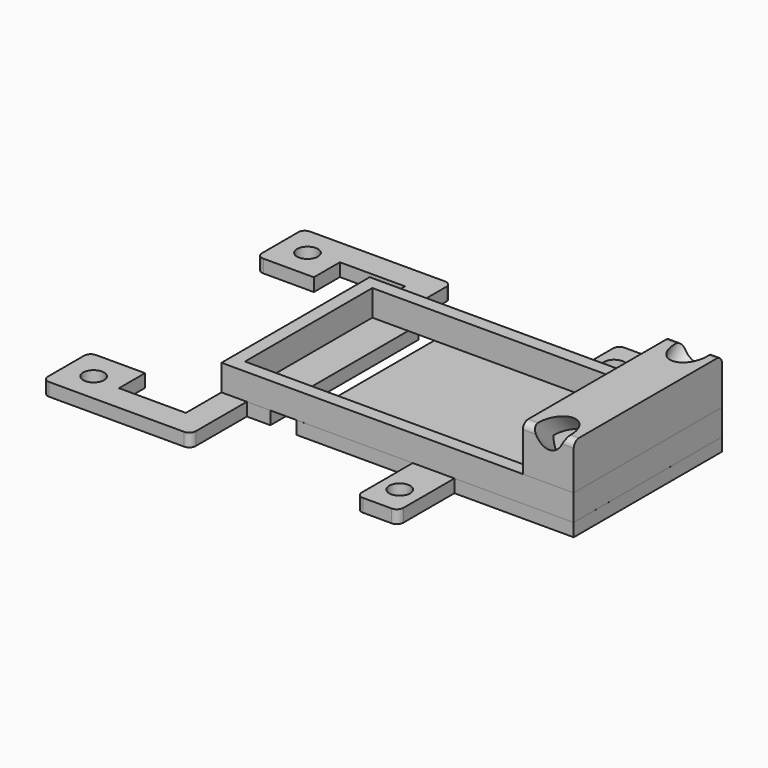
from build123d import *

# Parameters (mm, degrees)
SKETCH002_R     = 2.5
PAD002_DEPTH    = 7.5
SKETCH003_R     = 2.5
PAD003_DEPTH    = 7.25
SKETCH004_W     = 7.7928
SKETCH004_H     = 28.3985
PAD004_DEPTH    = 7
SKETCH006_W     = 20.21794
SKETCH006_H     = 4
POCKET_DEPTH    = 3
SKETCH_R        = 1.6
PAD_DEPTH       = 2
SKETCH001_W     = 53.9946
SKETCH001_H     = 28.4007
SKETCH001_W_2   = 44.2
SKETCH001_H_2   = 24.4007
PAD001_DEPTH    = 4
FILLET001_R     = 1
FILLET002_R     = 1
SKETCH007_W     = 4
SKETCH007_H     = 31.150972
POCKET001_DEPTH = 2


with BuildPart() as pad002:
    # Sketch002 → Pad002 (new body, symmetric)
    with BuildSketch(Plane(origin=(0.5, -2, 16), x_dir=(1, 0, 0), z_dir=(0, -0.707107, 0.707107))):
        with Locations((90.268963, -10.326332)):
            Circle(SKETCH002_R)
    extrude(amount=PAD002_DEPTH, both=True)


with BuildPart() as pad003:
    # Sketch003 → Pad003 (new body, symmetric)
    with BuildSketch(Plane(origin=(0, 8, 9), x_dir=(1, 0, 0), z_dir=(0, 0.707107, 0.707107))):
        with Locations((90.80912, 0.294413)):
            Circle(SKETCH003_R)
    extrude(amount=PAD003_DEPTH, both=True)


with BuildPart() as pocket:
    # Sketch004 → Pad004 (new body)
    with BuildSketch(Plane.XY.offset(6)):
        with Locations((90.6495, -0.51115)):
            Rectangle(SKETCH004_W, SKETCH004_H)
    extrude(amount=PAD004_DEPTH)

    # Cut: cut Pad003
    add(pad003.part, mode=Mode.SUBTRACT)

    # Cut001: cut Pad002
    add(pad002.part, mode=Mode.SUBTRACT)

    # Sketch006 → Pocket (cut)
    with BuildSketch(Plane(origin=(86.7531, 0, 0), x_dir=(0, -1, 0), z_dir=(-1, 0, 0))):
        with Locations((0.648237, 8.121586)):
            Rectangle(SKETCH006_W, SKETCH006_H)
    extrude(amount=-POCKET_DEPTH, mode=Mode.SUBTRACT)


with BuildPart() as pocket001:
    # Sketch → Pad (new body)
    with BuildSketch(Plane.XY):
        Polygon((21.7667, -25.4923), (21.7667, -16.53082), (30.29072, -16.53082), (30.29072, -21.52783), (40.54589, -21.52783), (40.54589, 20.48012), (30.54589, 20.48012), (30.54589, 15.49558), (21.7928, 15.49558), (21.7928, 24.4708), (44.46409, 24.4708), (44.46409, 13.68925), (70.02404, 13.68925), (70.02404, 24.4708), (76.4105, 24.4708), (76.4105, 13.68925), (94.54589, 13.68925), (94.54589, -14.71075), (76.26045, -14.71075), (76.26045, -25.4923), (69.87399, -25.4923), (69.87399, -14.71075), (44.43799, -14.71075), (44.43799, -25.4923), align=None)
        with Locations((25.98991, 19.9708)):
            Circle(SKETCH_R, mode=Mode.SUBTRACT)
        with Locations((25.99838, -21.01867)):
            Circle(SKETCH_R, mode=Mode.SUBTRACT)
        with Locations((72.97054, 20.01877)):
            Circle(SKETCH_R, mode=Mode.SUBTRACT)
        with Locations((72.94754, -21.05239)):
            Circle(SKETCH_R, mode=Mode.SUBTRACT)
    extrude(amount=PAD_DEPTH)

    # Sketch001 → Pad001 (new body)
    with BuildSketch(Plane.XY.offset(2)):
        with Locations((67.5478, -0.51015)):
            Rectangle(SKETCH001_W, SKETCH001_H)
        with Locations((64.6505, -0.51015)):
            Rectangle(SKETCH001_W_2, SKETCH001_H_2, mode=Mode.SUBTRACT)
    extrude(amount=PAD001_DEPTH)

    # Fusion: union Pocket
    add(pocket.part)

    # Fillet001
    fillet001_edges = [pocket001.edges().sort_by_distance(p)[0] for p in [
        (87.573856, -14.7104, 13),
        (93.844607, -14.7104, 13),
        (93.843844, 13.6881, 13),
        (87.614776, 13.6881, 13),
    ]]
    fillet(fillet001_edges, radius=FILLET001_R)

    # Fillet002
    fillet002_edges = [pocket001.edges().sort_by_distance(p)[0] for p in [
        (76.26045, -25.4923, 1),
        (69.87399, -25.4923, 1),
        (44.43799, -25.4923, 1),
        (21.7667, -25.4923, 1),
        (21.7928, 15.49558, 1),
        (21.7667, -16.53082, 1),
        (21.7928, 24.4708, 1),
        (70.02404, 24.4708, 1),
        (76.4105, 24.4708, 1),
        (44.46409, 24.4708, 1),
    ]]
    fillet(fillet002_edges, radius=FILLET002_R)

    # Sketch007 → Pocket001 (cut)
    with BuildSketch(Plane(origin=(0, 0, 0), x_dir=(1, 0, 0), z_dir=(0, 0, -1))):
        with Locations((50.046217, 0.273968)):
            Rectangle(SKETCH007_W, SKETCH007_H)
    extrude(amount=-POCKET001_DEPTH, mode=Mode.SUBTRACT)


solid = pocket001.part
